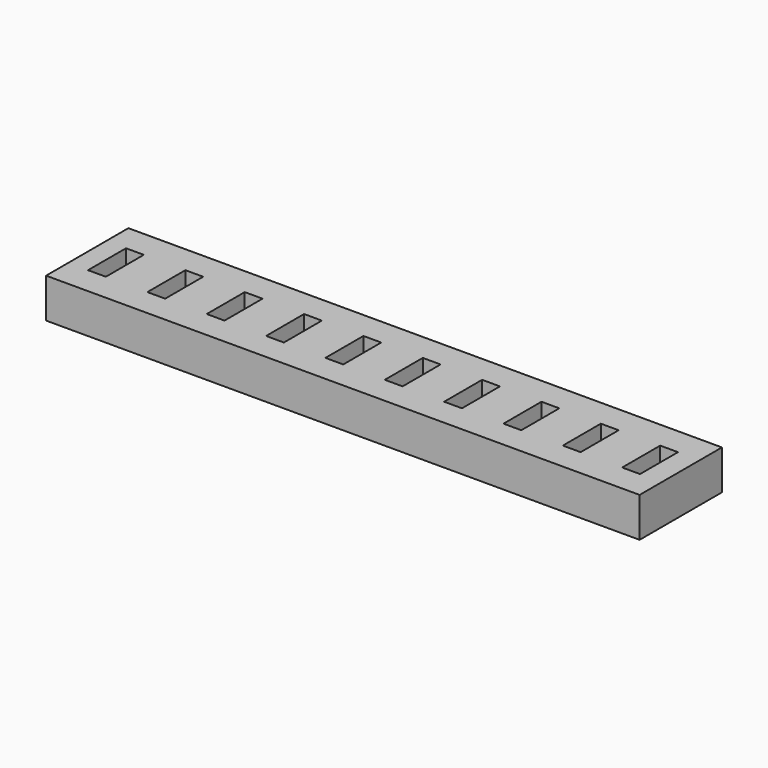
from build123d import *

# Parameters (mm, degrees)
BOX001_W      = 4.5
BOX001_H      = 12
BOX001_DEPTH  = 15
ARRAY_X_COUNT = 10
ARRAY_X_PITCH = 15
BOX_W         = 150
BOX_H         = 26
BOX_DEPTH     = 10


with BuildPart() as array:
    # Box001 → Box001 (new body)
    with BuildSketch(Plane(origin=(5, 7, 2), x_dir=(1, 0, 0), z_dir=(0, 0, 1))):
        with Locations((2.25, 6)):
            Rectangle(BOX001_W, BOX001_H)
    extrude(amount=BOX001_DEPTH)

    # Array X: Array ×10


with BuildPart() as array_1:
    add(array.part)
    with Locations(*[(i * ARRAY_X_PITCH, 0, 0) for i in range(1, ARRAY_X_COUNT)]):
        add(array.part)


with BuildPart() as cut:
    # Box → Box (new body)
    with BuildSketch(Plane.XY):
        with Locations((75, 13)):
            Rectangle(BOX_W, BOX_H)
    extrude(amount=BOX_DEPTH)

    # Cut: cut Array
    add(array_1.part, mode=Mode.SUBTRACT)


solid = cut.part
